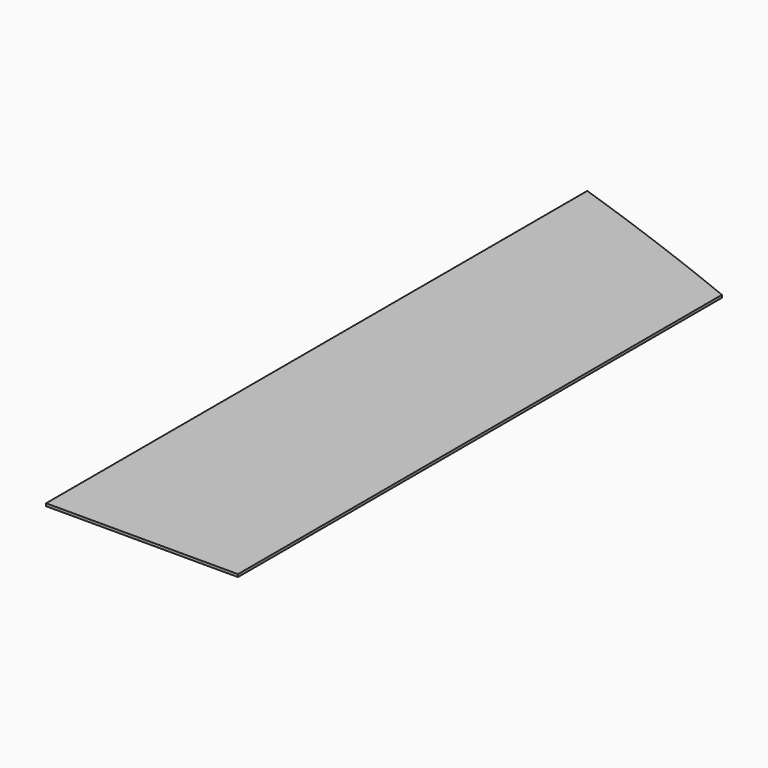
from build123d import *

# Parameters (mm, degrees)
F1_DEPTH = 25.4


with BuildPart() as f1:
    # F0 (on Top) → F1 (new body)
    with BuildSketch(Plane.XY):
        with BuildLine():
            Line((-948.986158, 4118.60765), (-948.986158, -2417.57435))
            Line((-948.986158, -2417.57435), (-21.886158, -2417.57435))
            Line((-21.886158, -2417.57435), (-21.886158, 3788.40765))
            ThreePointArc((-21.886158, 3788.40765), (-484.221904, 3956.916901), (-948.986158, 4118.60765))
        make_face()
        with BuildLine():
            Line((-21.886158, 3788.40765), (-21.886158, -2417.57435))
            Line((-21.886158, -2417.57435), (905.213842, -2417.57435))
            Line((905.213842, -2417.57435), (905.213842, 3426.96565))
            ThreePointArc((905.213842, 3426.96565), (443.00773, 3611.133725), (-21.886158, 3788.40765))
        make_face()
    extrude(amount=F1_DEPTH)


solid = f1.part
